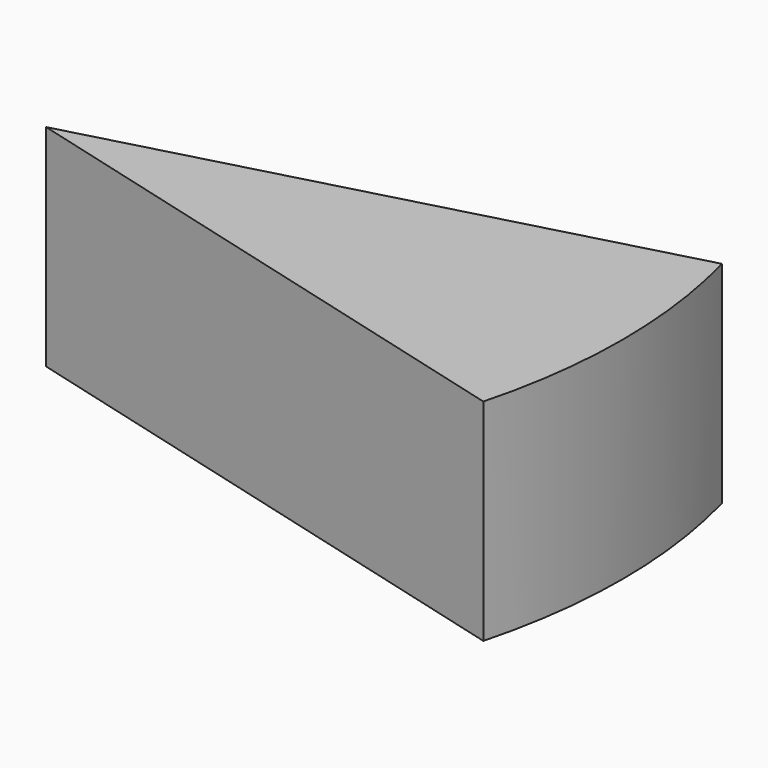
from build123d import *

# Parameters (mm, degrees)
F0_W          = 69.370791316
F0_H          = 25.3764130175
F1_ANGLE_BACK = 15
F1_ANGLE      = 30


with BuildPart() as f1:
    # F0 (on Front) → F1 (revolve)
    with BuildSketch(Plane.XZ, mode=Mode.PRIVATE) as f1_sk:
        with Locations((34.685395658, 12.6882065088)):
            Rectangle(F0_W, F0_H)
    revolve(f1_sk.sketch.rotate(Axis((0, 0, 12.6882065088), (0, 0, 1)), -F1_ANGLE_BACK), axis=Axis((0, 0, 12.6882065088), (0, 0, 1)), revolution_arc=F1_ANGLE)


solid = f1.part
